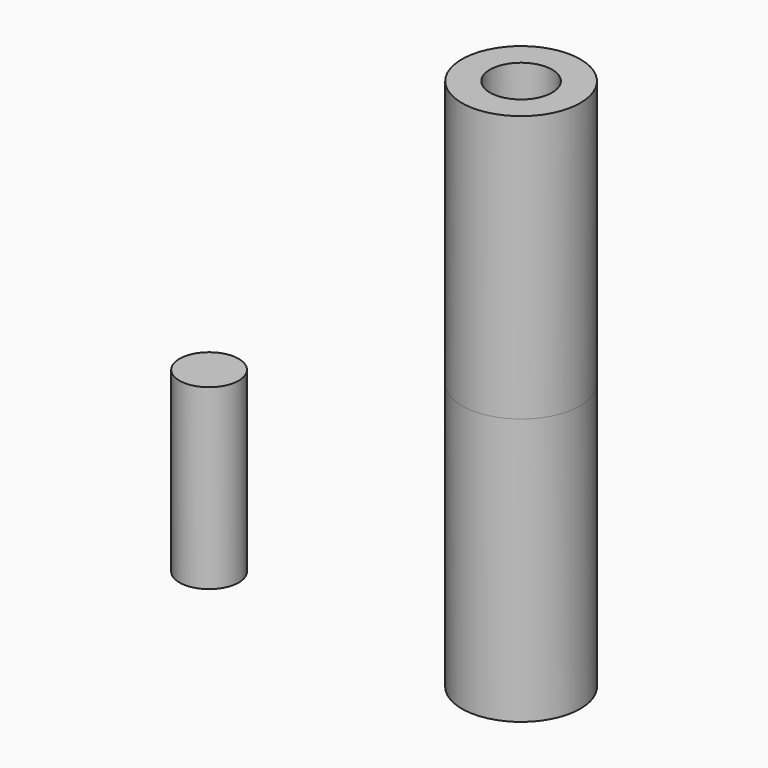
from build123d import *

# Parameters (mm, degrees)
F0_R     = 10
F0_R_2   = 5.25
F1_DEPTH = 45
F2_DEPTH = 15
F4_R     = 5
F5_DEPTH = 30


with BuildPart() as f1:
    # F0 (on Top) → F1 (new body)
    with BuildSketch(Plane.XY):
        Circle(F0_R)
        Circle(F0_R_2, mode=Mode.SUBTRACT)
        Circle(F0_R_2)
    extrude(amount=F1_DEPTH)

    # F0 (on Top) → F2 (cut)
    with BuildSketch(Plane.XY):
        Circle(F0_R_2)
    extrude(amount=F2_DEPTH, mode=Mode.SUBTRACT)

    # F3: F1 across face


with BuildPart() as f1_1:
    add(f1.part)
    add(f1.part.mirror(Plane.XY.offset(45)))


with BuildPart() as f5:
    # F4 (on Top) → F5 (new body)
    with BuildSketch(Plane.XY):
        with Locations((-52.65056, 0)):
            Circle(F4_R)
    extrude(amount=F5_DEPTH)


solid = Compound([f1_1.part, f5.part])
